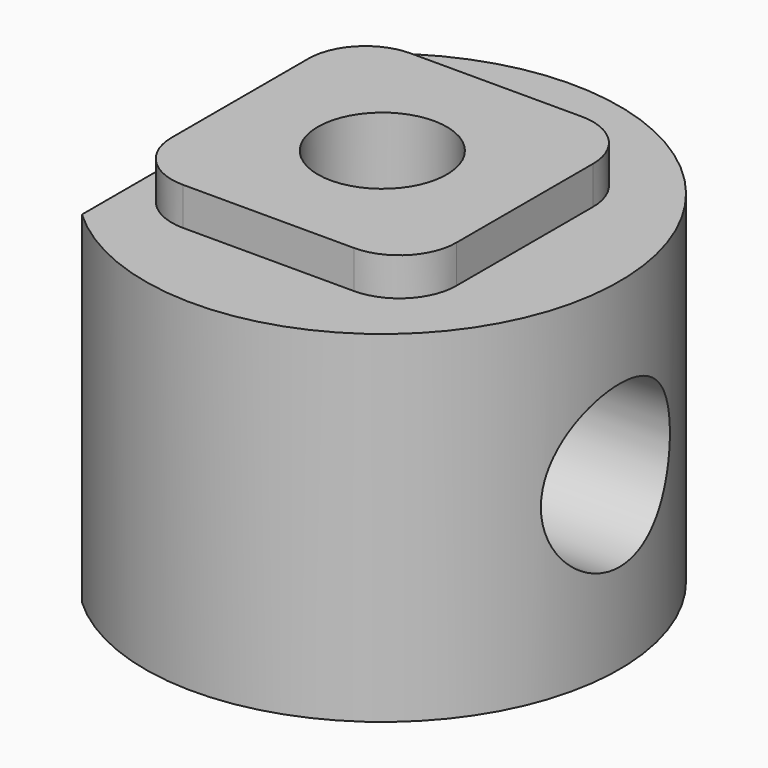
from build123d import *

# Parameters (mm, degrees)
F1_DEPTH = 18
F3_DEPTH = 2
F6_D     = 8.5
F7_D     = 6.8
F7_DEPTH = 10
F7_TIP   = 2.0429261047


with BuildPart() as f1:
    # F0 (on Top) → F1 (new body)
    with BuildSketch(Plane.XY):
        with BuildLine():
            Line((-8.5, 9.1651513899), (-8.5, -9.1651513899))
            ThreePointArc((-8.5, -9.1651513899), (12.5, 0), (-8.5, 9.1651513899))
        make_face()
    extrude(amount=F1_DEPTH)

    # F2 (on face) → F3 (join)
    with BuildSketch(Plane.XY.offset(18)):
        with BuildLine():
            Line((-4.5, -7.5), (4.5, -7.5))
            ThreePointArc((4.5, -7.5), (6.6213203436, -6.6213203436), (7.5, -4.5))
            Line((7.5, -4.5), (7.5, 4.5))
            ThreePointArc((7.5, 4.5), (6.6213203436, 6.6213203436), (4.5, 7.5))
            Line((4.5, 7.5), (-4.5, 7.5))
            ThreePointArc((-4.5, 7.5), (-6.6213203436, 6.6213203436), (-7.5, 4.5))
            Line((-7.5, 4.5), (-7.5, -4.5))
            ThreePointArc((-7.5, -4.5), (-6.6213203436, -6.6213203436), (-4.5, -7.5))
        make_face()
    extrude(amount=F3_DEPTH)

    # F6 (through all)
    with Locations(Plane(origin=(-8.5, 0, 0), x_dir=(0, -1, 0), z_dir=(-1, 0, 0))):
        with Locations((0, 9)):
            Hole(F6_D / 2)

    # F7
    with Locations(Plane.XY.offset(20)):
        with Locations((0, 0)):
            Hole(F7_D / 2, depth=F7_DEPTH)
            with Locations((0, 0, -(F7_DEPTH + F7_TIP / 2))):  # 118° drill point
                Cone(0, F7_D / 2, F7_TIP, mode=Mode.SUBTRACT)


solid = f1.part
